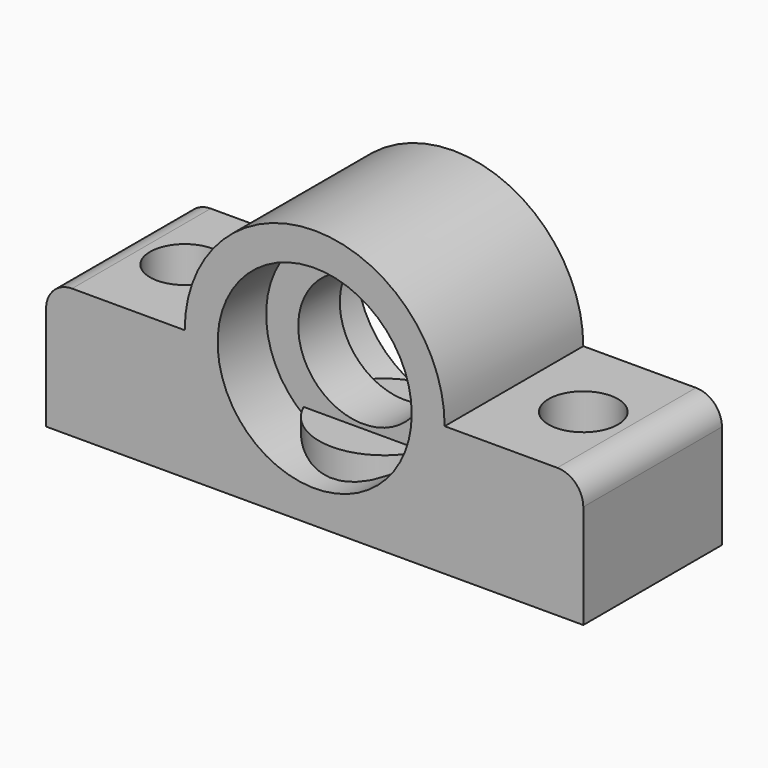
from build123d import *

# Parameters (mm, degrees)
CYLINDER001_R     = 7.5
CYLINDER001_DEPTH = 7
CYLINDER008_R     = 4
CYLINDER008_DEPTH = 8
CYLINDER007_R     = 2.25
CYLINDER007_DEPTH = 15
CYLINDER_R        = 11.2
CYLINDER_DEPTH    = 7
CYLINDER002_R     = 11.2
CYLINDER002_DEPTH = 7
CYLINDER004_R     = 7.5
CYLINDER004_DEPTH = 20
CYLINDER006_R     = 4
CYLINDER006_DEPTH = 8
CYLINDER005_R     = 2.25
CYLINDER005_DEPTH = 15
CYLINDER003_R     = 15
CYLINDER003_DEPTH = 20
BOX001_W          = 62
BOX001_H          = 20
BOX001_DEPTH      = 15
FILLET_R          = 3


with BuildPart() as cylinder001:
    # Cylinder001 → Cylinder001 (new body)
    with BuildSketch(Plane.XY):
        Circle(CYLINDER001_R)
    extrude(amount=CYLINDER001_DEPTH)


with BuildPart() as cylinder008:
    # Cylinder008 → Cylinder008 (new body)
    with BuildSketch(Plane.XY.offset(7)):
        Circle(CYLINDER008_R)
    extrude(amount=CYLINDER008_DEPTH)


with BuildPart() as fusion002:
    # Cylinder007 → Cylinder007 (new body)
    with BuildSketch(Plane.XY):
        Circle(CYLINDER007_R)
    extrude(amount=CYLINDER007_DEPTH)

    # Fusion002: union Cylinder008
    add(cylinder008.part)


with BuildPart() as fusion002_1:
    # Fusion002 placement: moved
    add(fusion002.part.moved(Location((-23, 0, 0))))


with BuildPart() as cylinder:
    # Cylinder → Cylinder (new body)
    with BuildSketch(Plane(origin=(0, -3, 15), x_dir=(1, 0, 0), z_dir=(0, -1, 0))):
        Circle(CYLINDER_R)
    extrude(amount=CYLINDER_DEPTH)


with BuildPart() as cylinder002:
    # Cylinder002 → Cylinder002 (new body)
    with BuildSketch(Plane(origin=(0, 10, 15), x_dir=(1, 0, 0), z_dir=(0, -1, 0))):
        Circle(CYLINDER002_R)
    extrude(amount=CYLINDER002_DEPTH)


with BuildPart() as fusion:
    # Cylinder004 → Cylinder004 (new body)
    with BuildSketch(Plane(origin=(0, 10, 15), x_dir=(1, 0, 0), z_dir=(0, -1, 0))):
        Circle(CYLINDER004_R)
    extrude(amount=CYLINDER004_DEPTH)

    # Fusion: union Cylinder, Cylinder002
    add(cylinder.part)
    add(cylinder002.part)


with BuildPart() as cylinder006:
    # Cylinder006 → Cylinder006 (new body)
    with BuildSketch(Plane.XY.offset(7)):
        Circle(CYLINDER006_R)
    extrude(amount=CYLINDER006_DEPTH)


with BuildPart() as fusion003:
    # Cylinder005 → Cylinder005 (new body)
    with BuildSketch(Plane.XY):
        Circle(CYLINDER005_R)
    extrude(amount=CYLINDER005_DEPTH)

    # Fusion001: union Cylinder006
    add(cylinder006.part)


with BuildPart() as fusion003_1:
    # Fusion001 placement: moved
    add(fusion003.part.moved(Location((23, 0, 0))))

    # Fusion003: union Fusion002, Fusion
    add(fusion002_1.part)
    add(fusion.part)


with BuildPart() as cylinder003:
    # Cylinder003 → Cylinder003 (new body)
    with BuildSketch(Plane(origin=(0, 10, 15), x_dir=(1, 0, 0), z_dir=(0, -1, 0))):
        Circle(CYLINDER003_R)
    extrude(amount=CYLINDER003_DEPTH)


with BuildPart() as fillet_body:
    # Box001 → Box001 (new body)
    with BuildSketch(Plane(origin=(-31, -10, 0), x_dir=(1, 0, 0), z_dir=(0, 0, 1))):
        with Locations((31, 10)):
            Rectangle(BOX001_W, BOX001_H)
    extrude(amount=BOX001_DEPTH)

    # Fusion004: union Cylinder003
    add(cylinder003.part)

    # Cut: cut Fusion003
    add(fusion003_1.part, mode=Mode.SUBTRACT)

    # Fillet
    fillet_edges = [fillet_body.edges().sort_by_distance(p)[0] for p in [
        (-31, 0, 15),
        (31, 0, 15),
    ]]
    fillet(fillet_edges, radius=FILLET_R)


solid = Compound([cylinder001.part, fillet_body.part])
